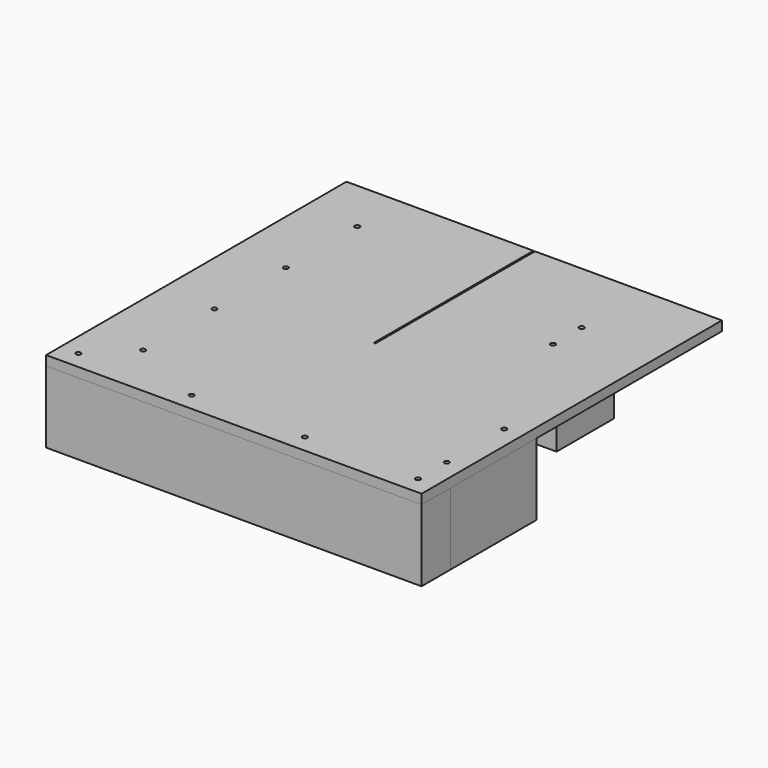
from build123d import *

# Parameters (mm, degrees)
F0_W        = 470
F0_H        = 470
F1_DEPTH    = 12
F3_DEPTH    = 90
F4_DEPTH    = 90
F2_W        = 45
F2_H        = 135
F5_DEPTH    = 90
F2_H_2      = 90
F6_DEPTH    = 90
F7_W        = 2
F7_H        = 250
F8_DEPTH    = 102.001
F10_D       = 6
F10_DEPTH   = 90
F10_TIP     = 1.8025818571
F10_2_D     = 6
F10_2_DEPTH = 90
F10_2_TIP   = 1.8025818571
F10_3_D     = 6
F10_3_DEPTH = 90
F10_3_TIP   = 1.8025818571
F10_4_D     = 6
F10_4_DEPTH = 90
F10_4_TIP   = 1.8025818571
F10_5_D     = 6
F10_5_DEPTH = 90
F10_5_TIP   = 1.8025818571


with BuildPart() as f1:
    # F0 (on Top) → F1 (new body)
    with BuildSketch(Plane.XY):
        Rectangle(F0_W, F0_H)
    extrude(amount=F1_DEPTH)

    # F7 (on face) → F8 (cut, through all)
    with BuildSketch(Plane.XY.offset(12)):
        with Locations((0, 110)):
            Rectangle(F7_W, F7_H)
    extrude(amount=-F8_DEPTH, mode=Mode.SUBTRACT)

    # F10
    with Locations(Plane.XY.offset(12)):
        with Locations((-212.5, -212.5), (-70.8333333333, -212.5), (70.8333333333, -212.5), (212.5, -212.5), (212.5, -167.5), (212.5, -77.5), (137.5, 92.5), (137.5, 137.5), (-167.5, -167.5), (-167.5, -55.8333333333), (-167.5, 55.8333333333), (-167.5, 167.5)):
            Hole(F10_D / 2, depth=F10_DEPTH)
            with Locations((0, 0, -(F10_DEPTH + F10_TIP / 2))):  # 118° drill point
                Cone(0, F10_D / 2, F10_TIP, mode=Mode.SUBTRACT)


with BuildPart() as f3:
    # F2 (on face) → F3 (new body)
    with BuildSketch(Plane(origin=(0, 0, 0), x_dir=(1, 0, 0), z_dir=(0, 0, -1))):
        Polygon((235, 235), (-235, 235), (-235, 190), (-190, 190), (-145, 190), (190, 190), (235, 190), align=None)
    extrude(amount=F3_DEPTH)

    # F10#2
    with Locations(Plane.XY.offset(12)):
        with Locations((-212.5, -212.5), (-70.8333333333, -212.5), (70.8333333333, -212.5), (212.5, -212.5), (212.5, -167.5), (212.5, -77.5), (137.5, 92.5), (137.5, 137.5), (-167.5, -167.5), (-167.5, -55.8333333333), (-167.5, 55.8333333333), (-167.5, 167.5)):
            Hole(F10_2_D / 2, depth=F10_2_DEPTH)
            with Locations((0, 0, -(F10_2_DEPTH + F10_2_TIP / 2))):  # 118° drill point
                Cone(0, F10_2_D / 2, F10_2_TIP, mode=Mode.SUBTRACT)


with BuildPart() as f4:
    # F2 (on face) → F4 (new body)
    with BuildSketch(Plane(origin=(0, 0, 0), x_dir=(1, 0, 0), z_dir=(0, 0, -1))):
        Polygon((-145, 190), (-190, 190), (-190, -145), (-190, -190), (-145, -190), align=None)
    extrude(amount=F4_DEPTH)

    # F10#3
    with Locations(Plane.XY.offset(12)):
        with Locations((-212.5, -212.5), (-70.8333333333, -212.5), (70.8333333333, -212.5), (212.5, -212.5), (212.5, -167.5), (212.5, -77.5), (137.5, 92.5), (137.5, 137.5), (-167.5, -167.5), (-167.5, -55.8333333333), (-167.5, 55.8333333333), (-167.5, 167.5)):
            Hole(F10_3_D / 2, depth=F10_3_DEPTH)
            with Locations((0, 0, -(F10_3_DEPTH + F10_3_TIP / 2))):  # 118° drill point
                Cone(0, F10_3_D / 2, F10_3_TIP, mode=Mode.SUBTRACT)


with BuildPart() as f5:
    # F2 (on face) → F5 (new body)
    with BuildSketch(Plane(origin=(0, 0, 0), x_dir=(1, 0, 0), z_dir=(0, 0, -1))):
        with Locations((212.5, 122.5)):
            Rectangle(F2_W, F2_H)
    extrude(amount=F5_DEPTH)

    # F10#4
    with Locations(Plane.XY.offset(12)):
        with Locations((-212.5, -212.5), (-70.8333333333, -212.5), (70.8333333333, -212.5), (212.5, -212.5), (212.5, -167.5), (212.5, -77.5), (137.5, 92.5), (137.5, 137.5), (-167.5, -167.5), (-167.5, -55.8333333333), (-167.5, 55.8333333333), (-167.5, 167.5)):
            Hole(F10_4_D / 2, depth=F10_4_DEPTH)
            with Locations((0, 0, -(F10_4_DEPTH + F10_4_TIP / 2))):  # 118° drill point
                Cone(0, F10_4_D / 2, F10_4_TIP, mode=Mode.SUBTRACT)


with BuildPart() as f6:
    # F2 (on face) → F6 (new body)
    with BuildSketch(Plane(origin=(0, 0, 0), x_dir=(1, 0, 0), z_dir=(0, 0, -1))):
        with Locations((137.5, -115)):
            Rectangle(F2_W, F2_H_2)
    extrude(amount=F6_DEPTH)

    # F10#5
    with Locations(Plane.XY.offset(12)):
        with Locations((-212.5, -212.5), (-70.8333333333, -212.5), (70.8333333333, -212.5), (212.5, -212.5), (212.5, -167.5), (212.5, -77.5), (137.5, 92.5), (137.5, 137.5), (-167.5, -167.5), (-167.5, -55.8333333333), (-167.5, 55.8333333333), (-167.5, 167.5)):
            Hole(F10_5_D / 2, depth=F10_5_DEPTH)
            with Locations((0, 0, -(F10_5_DEPTH + F10_5_TIP / 2))):  # 118° drill point
                Cone(0, F10_5_D / 2, F10_5_TIP, mode=Mode.SUBTRACT)


solid = Compound([f1.part, f3.part, f4.part, f5.part, f6.part])
